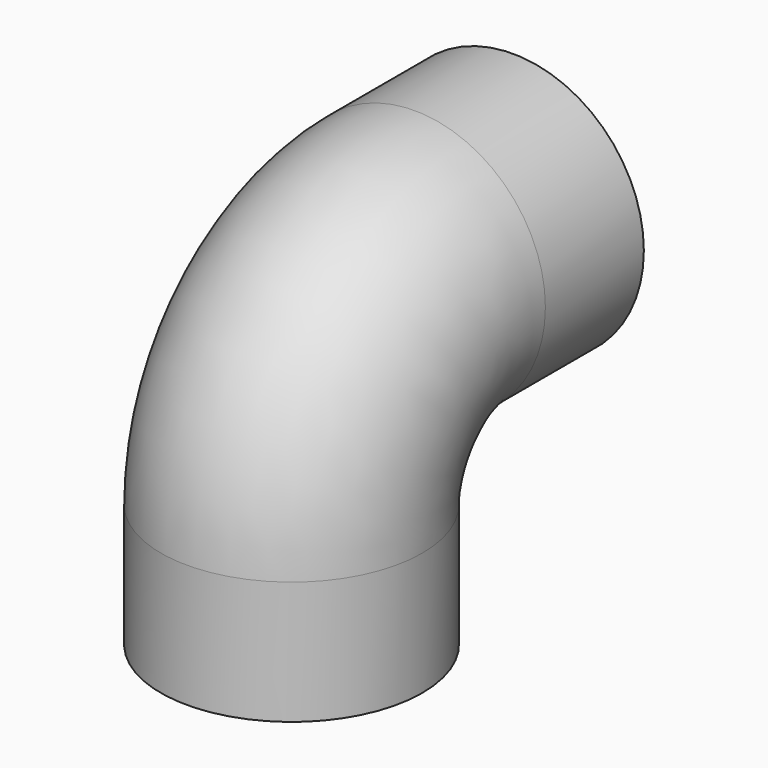
from build123d import *

# Parameters (mm, degrees)
F0_R   = 8.5
F0_R_2 = 8


with BuildPart() as f2:
    # F2: sweep along a path in F1
    with BuildLine(Plane.YZ) as f2_path:
        Line((0, 0), (0, 8))
        ThreePointArc((0, 8), (2.928932, 15.071068), (10, 18))
        Line((10, 18), (18, 18))
    # F0 (on Top) → F2 (sweep)
    with BuildSketch(Plane.XY):
        Circle(F0_R)
        Circle(F0_R_2, mode=Mode.SUBTRACT)
    sweep(path=f2_path.line)


solid = f2.part
